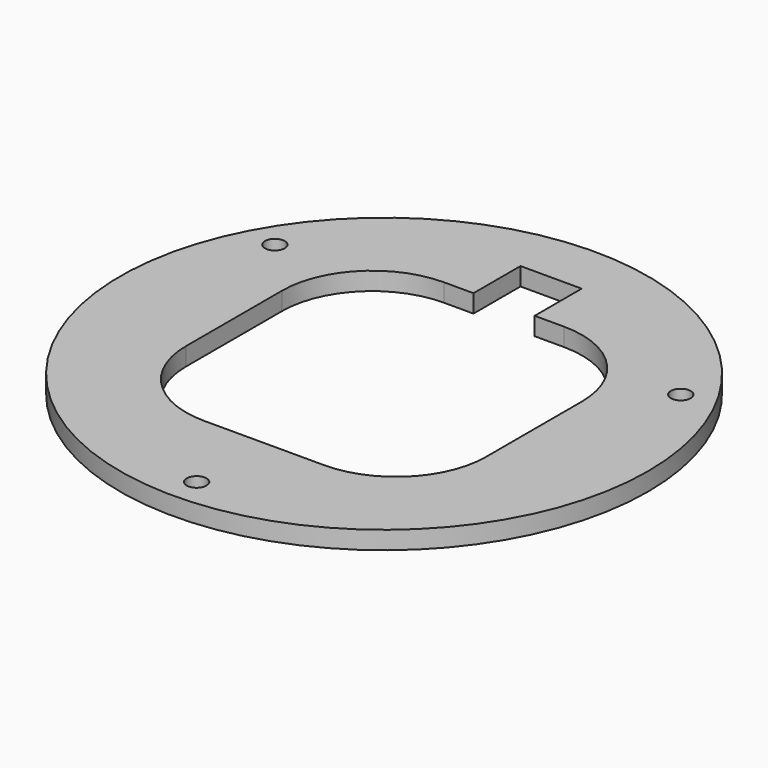
from build123d import *

# Parameters (mm, degrees)
F0_R     = 44
F0_R_2   = 1.65
F1_DEPTH = 3


with BuildPart() as f1:
    # F0 (on Top) → F1 (new body)
    with BuildSketch(Plane.XY):
        Circle(F0_R)
        with Locations((0, -39.064214)):
            Circle(F0_R_2, mode=Mode.SUBTRACT)
        with Locations((-33.830601, 19.532107)):
            Circle(F0_R_2, mode=Mode.SUBTRACT)
        with BuildLine():
            Line((5.1, 34.800884), (5.1, 25))
            Line((5.1, 25), (10, 25))
            ThreePointArc((10, 25), (20.606602, 20.606602), (25, 10))
            Line((25, 10), (25, -10))
            ThreePointArc((25, -10), (20.606602, -20.606602), (10, -25))
            Line((10, -25), (-10, -25))
            ThreePointArc((-10, -25), (-20.606602, -20.606602), (-25, -10))
            Line((-25, -10), (-25, 10))
            ThreePointArc((-25, 10), (-20.606602, 20.606602), (-10, 25))
            Line((-10, 25), (-5.1, 25))
            Line((-5.1, 25), (-5.1, 34.800884))
            Line((-5.1, 34.800884), (5.1, 34.800884))
        make_face(mode=Mode.SUBTRACT)
        with Locations((33.830601, 19.532107)):
            Circle(F0_R_2, mode=Mode.SUBTRACT)
    extrude(amount=F1_DEPTH)


solid = f1.part
